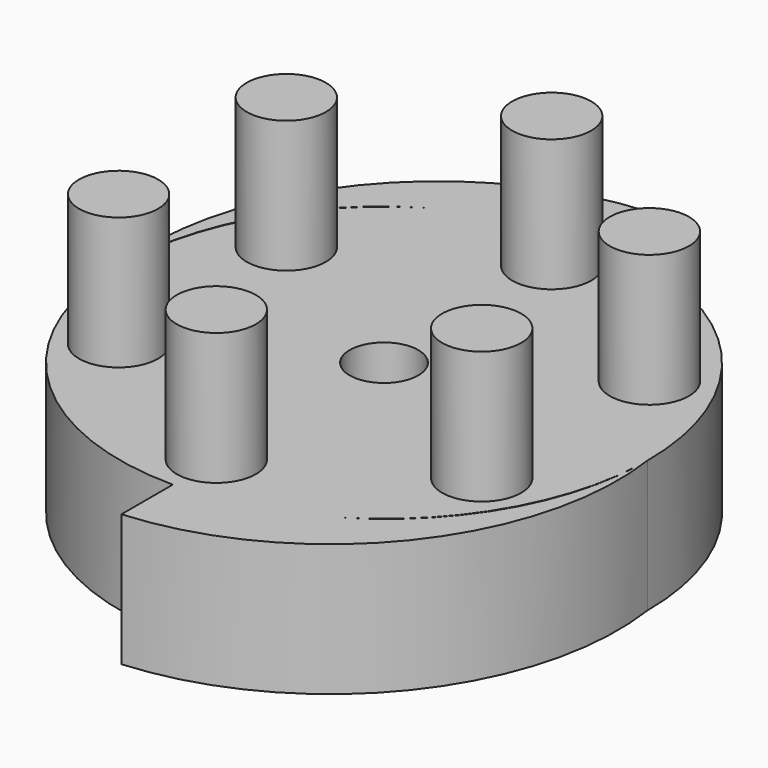
from build123d import *

# Parameters (mm, degrees)
F0_R     = 25.4
F1_DEPTH = 12.7
F3_DEPTH = 12.7
F4_R     = 3.81
F5_DEPTH = 12.7
F6_R     = 3.302
F7_DEPTH = 12.7


with BuildPart() as f1:
    # F0 (on Top) → F1 (new body)
    with BuildSketch(Plane.XY):
        Circle(F0_R)
    extrude(amount=-F1_DEPTH)

    # F2 (on Top) → F3 (join)
    with BuildSketch(Plane.XY):
        with BuildLine():
            ThreePointArc((-25.388571, 0), (-18.019038, 17.965669), (0, 25.203731))
            Line((0, 25.203731), (0, 31.581391))
            ThreePointArc((0, 31.581391), (-19.572424, 21.320095), (-25.388571, 0))
        make_face()
        with BuildLine():
            Line((0, -25.203731), (0, -31.581391))
            ThreePointArc((0, -31.581391), (19.572424, -21.320095), (25.388571, 0))
            ThreePointArc((25.388571, 0), (18.019038, -17.965669), (0, -25.203731))
        make_face()
    extrude(amount=-F3_DEPTH)

    # F4 (on Top) → F5 (join)
    with BuildSketch(Plane.XY):
        with Locations((-17.467251, 10.084722)):
            Circle(F4_R)
        with Locations((0, 20.169444)):
            Circle(F4_R)
        with Locations((17.467251, 10.084722)):
            Circle(F4_R)
        with Locations((17.467251, -10.084722)):
            Circle(F4_R)
        with Locations((0, -20.169444)):
            Circle(F4_R)
        with Locations((-17.467251, -10.084722)):
            Circle(F4_R)
    extrude(amount=F5_DEPTH)

    # F6 (on Top) → F7 (cut)
    with BuildSketch(Plane.XY):
        Circle(F6_R)
    extrude(amount=-F7_DEPTH, mode=Mode.SUBTRACT)


solid = f1.part
